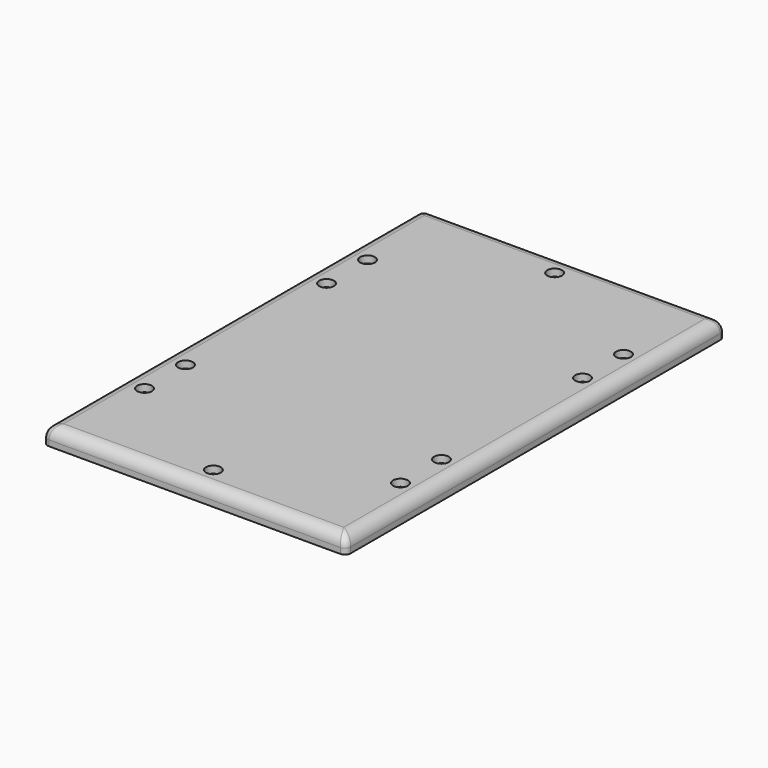
from build123d import *

# Parameters (mm, degrees)
SKETCH_W        = 213
SKETCH_H        = 333
PAD_DEPTH       = 12
SKETCH001_R     = 5.2
POCKET_DEPTH    = 5
SKETCH002_R     = 3.2
POCKET001_DEPTH = 7
FILLET_R        = 8
FILLET001_R     = 4


with BuildPart() as part:
    # Sketch → Pad (new body)
    with BuildSketch(Plane.XY):
        with Locations((106.5, 166.5)):
            Rectangle(SKETCH_W, SKETCH_H)
    extrude(amount=PAD_DEPTH)

    # Sketch001 (on Face6 of Pad) → Pocket (cut)
    with BuildSketch(Plane.XY.offset(12)):
        with Locations((16.5, 264.5)):
            Circle(SKETCH001_R)
        with Locations((16.5, 228.5)):
            Circle(SKETCH001_R)
        with Locations((16.5, 104.5)):
            Circle(SKETCH001_R)
        with Locations((16.5, 68.5)):
            Circle(SKETCH001_R)
        with Locations((196.5, 264.5)):
            Circle(SKETCH001_R)
        with Locations((196.5, 228.5)):
            Circle(SKETCH001_R)
        with Locations((196.5, 104.5)):
            Circle(SKETCH001_R)
        with Locations((196.5, 68.5)):
            Circle(SKETCH001_R)
        with Locations((106.5, 316.5)):
            Circle(SKETCH001_R)
        with Locations((106.5, 16.5)):
            Circle(SKETCH001_R)
    extrude(amount=-POCKET_DEPTH, mode=Mode.SUBTRACT)

    # Sketch002 (on Face23 of Pocket) → Pocket001 (cut)
    with BuildSketch(Plane.XY.offset(7)):
        with Locations((106.5, 316.5)):
            Circle(SKETCH002_R)
        with Locations((16.5, 264.5)):
            Circle(SKETCH002_R)
        with Locations((16.5, 228.5)):
            Circle(SKETCH002_R)
        with Locations((16.5, 104.5)):
            Circle(SKETCH002_R)
        with Locations((16.5, 68.5)):
            Circle(SKETCH002_R)
        with Locations((106.5, 16.5)):
            Circle(SKETCH002_R)
        with Locations((196.5, 68.5)):
            Circle(SKETCH002_R)
        with Locations((196.5, 104.5)):
            Circle(SKETCH002_R)
        with Locations((196.5, 228.5)):
            Circle(SKETCH002_R)
        with Locations((196.5, 264.5)):
            Circle(SKETCH002_R)
    extrude(amount=-POCKET001_DEPTH, mode=Mode.SUBTRACT)

    # Fillet
    fillet_edges = [part.edges().sort_by_distance(p)[0] for p in [
        (106.5, 0, 12),
        (213, 166.5, 12),
        (106.5, 333, 12),
        (0, 166.5, 12),
    ]]
    fillet(fillet_edges, radius=FILLET_R)

    # Fillet001
    fillet001_edges = [part.edges().sort_by_distance(p)[0] for p in [
        (0, 0, 2),
        (2.831608, 2.831608, 10.106368),
        (213, 0, 2),
        (210.168391, 2.831609, 10.106368),
        (213, 333, 2),
        (210.168392, 330.168392, 10.106368),
        (0, 333, 2),
        (2.831609, 330.168391, 10.106368),
    ]]
    fillet(fillet001_edges, radius=FILLET001_R)


solid = part.part
